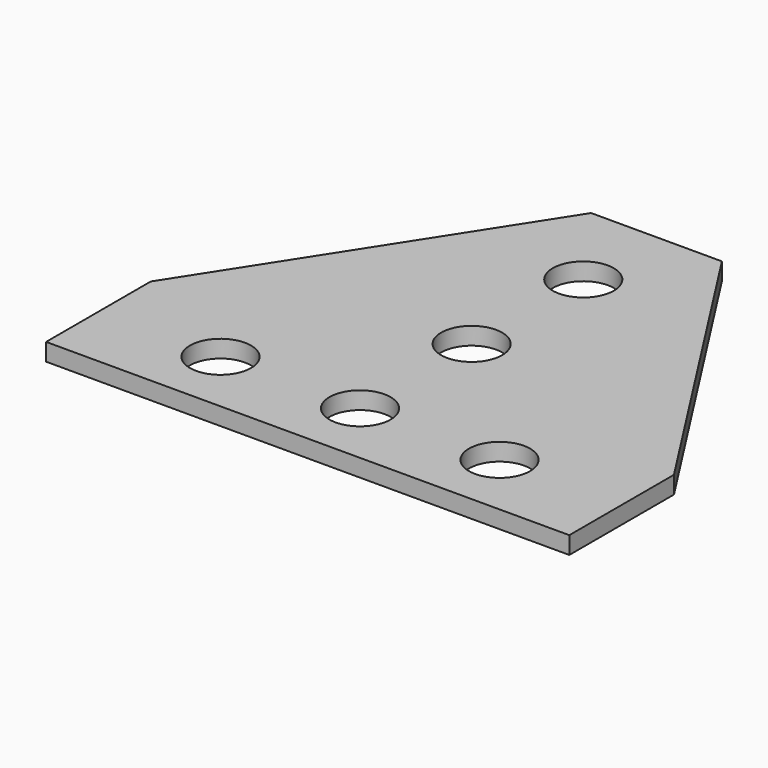
from build123d import *

# Parameters (mm, degrees)
F0_R     = 4.445
F1_DEPTH = 2.54


with BuildPart() as f1:
    # F0 (on Top) → F1 (new body)
    with BuildSketch(Plane.XY):
        Polygon((-76.2, 0), (0, 0), (0, 19.05), (-28.575, 63.5), (-47.625, 63.5), (-76.2, 19.05), align=None)
        with Locations((-58.42, 9.525)):
            Circle(F0_R, mode=Mode.SUBTRACT)
        with Locations((-38.1, 9.525)):
            Circle(F0_R, mode=Mode.SUBTRACT)
        with Locations((-38.1, 29.845)):
            Circle(F0_R, mode=Mode.SUBTRACT)
        with Locations((-17.78, 9.525)):
            Circle(F0_R, mode=Mode.SUBTRACT)
        with Locations((-38.1, 50.165)):
            Circle(F0_R, mode=Mode.SUBTRACT)
    extrude(amount=F1_DEPTH)


solid = f1.part
